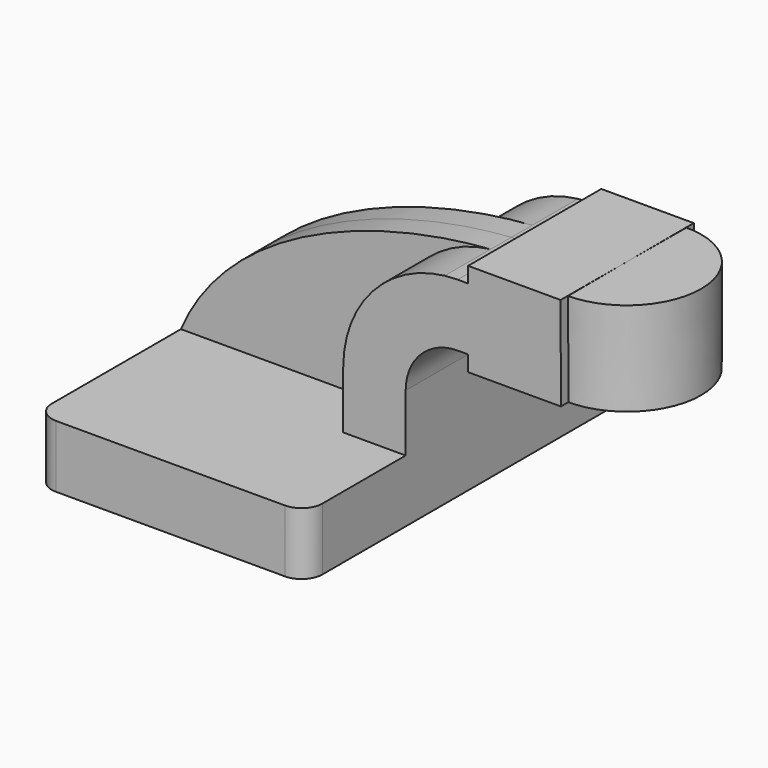
from build123d import *

# Parameters (mm, degrees)
F1_DEPTH = 63.5
F2_DEPTH = 25.4
F3_DEPTH = 7.9375
F5_R     = 6.35


with BuildPart() as f1:
    # F0 (on Front) → F1 (new body, symmetric)
    with BuildSketch(Plane.XZ):
        Polygon((41.275, -9.525), (41.275, 9.525), (22.225, 9.525), (-41.275, 9.525), (-41.275, -9.525), align=None)
    extrude(amount=F1_DEPTH, both=True)

    # F0 (on Front) → F2 (join, symmetric)
    with BuildSketch(Plane.XZ):
        with BuildLine():
            Line((22.225, 9.525), (41.275, 9.525))
            Line((41.275, 9.525), (41.275, 27.0002))
            ThreePointArc((41.275, 27.0002), (45.9246798487, 38.2255201513), (57.15, 42.8752))
            Line((57.15, 42.8752), (60.325, 42.8752))
            Line((60.325, 42.8752), (60.325, 61.9252))
            Line((60.325, 61.9252), (57.15, 61.9252))
            add(Edge.make_bspline(
                [(53.2161120168, 61.7029398102), (54.5445146858, 61.7959609032), (55.856608148, 61.8699219769), (57.15, 61.9252)],
                knots=[107.3610725616, 107.3610725616, 107.3610725616, 107.3610725616, 111.5045361635, 111.5045361635, 111.5045361635, 111.5045361635], degree=3))
            ThreePointArc((53.2161120168, 61.7029398102), (31.1005598638, 50.263525076), (22.225, 27.0002))
            Line((22.225, 27.0002), (22.225, 9.525))
        make_face()
        Polygon((60.325, 61.9252), (60.325, 42.8752), (60.325, 38.1), (88.6418297887, 38.1), (88.5500867666, 66.675), (60.325, 66.675), align=None)
    extrude(amount=F2_DEPTH, both=True)

    # F0 (on Front) → F3 (join, symmetric)
    with BuildSketch(Plane.XZ):
        with BuildLine():
            Line((-41.275, 9.525), (22.225, 9.525))
            Line((22.225, 9.525), (22.225, 27.0002))
            ThreePointArc((22.225, 27.0002), (31.1005598638, 50.263525076), (53.2161120168, 61.7029398102))
            add(Edge.make_bspline(
                [(-41.275, 9.525), (-26.5738652542, 44.08594676), (18.7959386917, 59.292675047), (53.2161120168, 61.7029398102)],
                knots=[0, 0, 0, 0, 107.3610725616, 107.3610725616, 107.3610725616, 107.3610725616], degree=3))
        make_face()
    extrude(amount=F3_DEPTH, both=True)

    # F5
    f5_edges = [f1.edges().sort_by_distance(p)[0] for p in [
        (41.275, -63.5, 0),
        (-41.275, -63.5, 0),
        (41.275, 63.5, 0),
        (-41.275, 63.5, 0),
    ]]
    fillet(f5_edges, radius=F5_R)


with BuildPart() as f4:
    # F0 (on Front) → F4 (revolve)
    with BuildSketch(Plane.XZ):
        Polygon((88.5500867666, 66.675), (88.6418297887, 38.1), (111.125, 38.1), (111.125, 66.675), align=None)
    revolve(axis=Axis((88.5959582777, 0, 52.3875), (-0.0032105879, 0, 0.999994846)))


solid = Compound([f1.part, f4.part])
